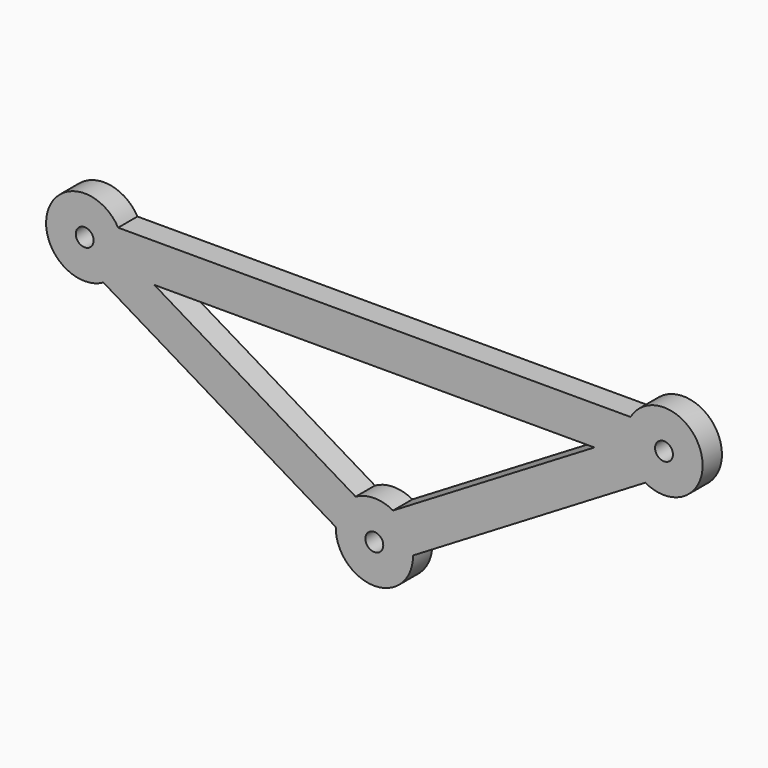
from build123d import *

# Parameters (mm, degrees)
F0_R     = 1.85
F1_DEPTH = 2.5


with BuildPart() as f1:
    # F0 (on Front) → F1 (new body, symmetric)
    with BuildSketch(Plane.XZ):
        with BuildLine():
            Line((-56.121855, 29.058371), (-7.998775, 0.139999))
            ThreePointArc((-7.998775, 0.139999), (0, -8), (7.998775, 0.139999))
            Line((7.998775, 0.139999), (56.121855, 29.058371))
            ThreePointArc((56.121855, 29.058371), (67.708993, 38.193603), (53.071797, 40.055513))
            Line((53.071797, 40.055513), (-53.071797, 40.055513))
            ThreePointArc((-53.071797, 40.055513), (-67.708993, 38.193603), (-56.121855, 29.058371))
        make_face()
        Circle(F0_R, mode=Mode.SUBTRACT)
        with Locations((-60, 36.055513)):
            Circle(F0_R, mode=Mode.SUBTRACT)
        with BuildLine():
            Line((-45.577795, 32.055513), (45.577795, 32.055513))
            Line((45.577795, 32.055513), (3.878145, 6.997142))
            ThreePointArc((3.878145, 6.997142), (0, 8), (-3.878145, 6.997142))
            Line((-3.878145, 6.997142), (-45.577795, 32.055513))
        make_face(mode=Mode.SUBTRACT)
        with Locations((60, 36.055513)):
            Circle(F0_R, mode=Mode.SUBTRACT)
    extrude(amount=F1_DEPTH, both=True)


solid = f1.part
